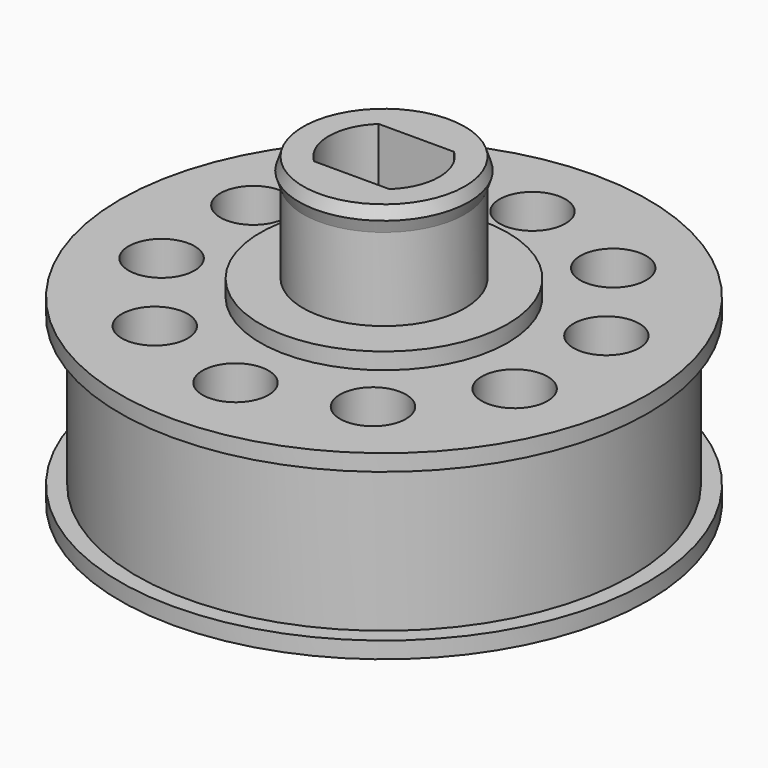
from build123d import *

# Parameters (mm, degrees)
F2_R         = 15
F2_R_2       = 2
F2_R_3       = 7.5
F2_R_4       = 4.9
F3_DEPTH     = 11
F4_DEPTH     = 9
F5_DEPTH     = 18.5
F2_R_5       = 16
F10_DEPTH    = 1
F11_START    = 9
F10_FACE_R   = 16
F10_FACE_R_2 = 15
F11_DEPTH    = 1
F12_DEPTH    = 12


with BuildPart() as f3:
    # F2 (on Top) → F3 (new body)
    with BuildSketch(Plane.XY):
        Circle(F2_R)
        with Locations((-6.6125840883, -9.1014411867)):
            Circle(F2_R_2, mode=Mode.SUBTRACT)
        with Locations((-10.6993858083, -3.4764411867)):
            Circle(F2_R_2, mode=Mode.SUBTRACT)
        with Locations((0, -11.25)):
            Circle(F2_R_2, mode=Mode.SUBTRACT)
        with Locations((6.6125840883, -9.1014411867)):
            Circle(F2_R_2, mode=Mode.SUBTRACT)
        with Locations((10.6993858083, -3.4764411867)):
            Circle(F2_R_2, mode=Mode.SUBTRACT)
        with Locations((-10.6993858083, 3.4764411867)):
            Circle(F2_R_2, mode=Mode.SUBTRACT)
        with Locations((-6.6125840883, 9.1014411867)):
            Circle(F2_R_2, mode=Mode.SUBTRACT)
        Circle(F2_R_3, mode=Mode.SUBTRACT)
        with Locations((10.6993858083, 3.4764411867)):
            Circle(F2_R_2, mode=Mode.SUBTRACT)
        with Locations((0, 11.25)):
            Circle(F2_R_2, mode=Mode.SUBTRACT)
        with Locations((6.6125840883, 9.1014411867)):
            Circle(F2_R_2, mode=Mode.SUBTRACT)
        Circle(F2_R_3)
        Circle(F2_R_4, mode=Mode.SUBTRACT)
        Circle(F2_R_4)
        with BuildLine():
            ThreePointArc((-2.2847319318, -2.45), (-3.35, 0), (-2.2847319318, 2.45))
            Line((-2.2847319318, 2.45), (2.2847319318, 2.45))
            ThreePointArc((2.2847319318, 2.45), (3.35, 0), (2.2847319318, -2.45))
            Line((2.2847319318, -2.45), (-2.2847319318, -2.45))
        make_face(mode=Mode.SUBTRACT)
    extrude(amount=F3_DEPTH)

    # F2 (on Top) → F4 (join)
    with BuildSketch(Plane.XY):
        Circle(F2_R_3)
        Circle(F2_R_4, mode=Mode.SUBTRACT)
        Circle(F2_R_4)
        with BuildLine():
            ThreePointArc((-2.2847319318, -2.45), (-3.35, 0), (-2.2847319318, 2.45))
            Line((-2.2847319318, 2.45), (2.2847319318, 2.45))
            ThreePointArc((2.2847319318, 2.45), (3.35, 0), (2.2847319318, -2.45))
            Line((2.2847319318, -2.45), (-2.2847319318, -2.45))
        make_face(mode=Mode.SUBTRACT)
    extrude(amount=F4_DEPTH)

    # F2 (on Top) → F5 (join)
    with BuildSketch(Plane.XY):
        Circle(F2_R_4)
        with BuildLine():
            ThreePointArc((-2.2847319318, -2.45), (-3.35, 0), (-2.2847319318, 2.45))
            Line((-2.2847319318, 2.45), (2.2847319318, 2.45))
            ThreePointArc((2.2847319318, 2.45), (3.35, 0), (2.2847319318, -2.45))
            Line((2.2847319318, -2.45), (-2.2847319318, -2.45))
        make_face(mode=Mode.SUBTRACT)
    extrude(amount=F5_DEPTH)

    # F6 (on Front) → F7 (revolve)
    with BuildSketch(Plane.XZ):
        Polygon((5.15, 17.75), (4.9, 18.5), (4.9, 17), align=None)
    revolve(axis=Axis((0, 0, 8.7542282417), (0, 0, 1)))

    # F2 (on Top) → F10 (join)
    with BuildSketch(Plane.XY):
        Circle(F2_R_5)
        Circle(F2_R, mode=Mode.SUBTRACT)
    extrude(amount=F10_DEPTH)

    # F2 (on Top) + F10_face (on face) → F11 (join)
    with BuildSketch(Plane.XY.offset(F11_START)):
        Circle(F2_R)
        with Locations((-6.6125840883, -9.1014411867)):
            Circle(F2_R_2, mode=Mode.SUBTRACT)
        with Locations((-10.6993858083, -3.4764411867)):
            Circle(F2_R_2, mode=Mode.SUBTRACT)
        with Locations((0, -11.25)):
            Circle(F2_R_2, mode=Mode.SUBTRACT)
        with Locations((6.6125840883, -9.1014411867)):
            Circle(F2_R_2, mode=Mode.SUBTRACT)
        with Locations((10.6993858083, -3.4764411867)):
            Circle(F2_R_2, mode=Mode.SUBTRACT)
        with Locations((-10.6993858083, 3.4764411867)):
            Circle(F2_R_2, mode=Mode.SUBTRACT)
        with Locations((-6.6125840883, 9.1014411867)):
            Circle(F2_R_2, mode=Mode.SUBTRACT)
        Circle(F2_R_3, mode=Mode.SUBTRACT)
        with Locations((10.6993858083, 3.4764411867)):
            Circle(F2_R_2, mode=Mode.SUBTRACT)
        with Locations((0, 11.25)):
            Circle(F2_R_2, mode=Mode.SUBTRACT)
        with Locations((6.6125840883, 9.1014411867)):
            Circle(F2_R_2, mode=Mode.SUBTRACT)
    with BuildSketch(Plane.XY.offset(1).offset(F11_START)):
        Circle(F10_FACE_R)
        Circle(F10_FACE_R_2, mode=Mode.SUBTRACT)
    extrude(amount=F11_DEPTH)

    # F2 (on Top) → F12 (join)
    with BuildSketch(Plane.XY):
        Circle(F2_R_3)
        Circle(F2_R_4, mode=Mode.SUBTRACT)
    extrude(amount=F12_DEPTH)


solid = f3.part
